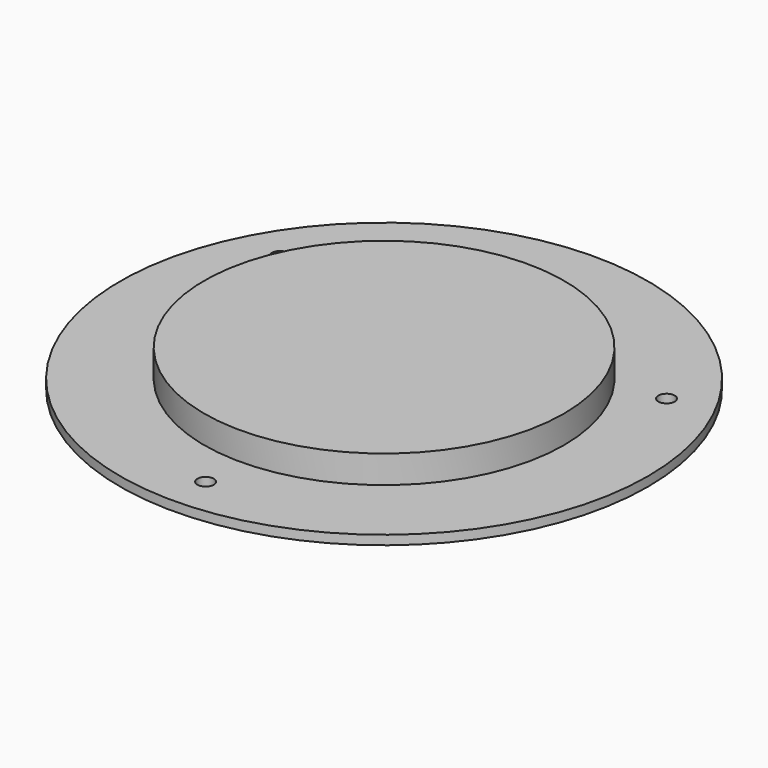
from build123d import *

# Parameters (mm, degrees)
SKETCH006_R   = 39.497
PAD001_DEPTH  = 6.096
SKETCH007_R   = 57.9374
SKETCH007_R_2 = 1.8034
PAD002_DEPTH  = 2.032
SKETCH009_R   = 36.957
POCKET_DEPTH  = 5.08


with BuildPart() as part:
    # Sketch006 → Pad001 (new body)
    with BuildSketch(Plane.XY):
        with Locations((177.8, 177.8)):
            Circle(SKETCH006_R)
    extrude(amount=PAD001_DEPTH)

    # Sketch007 → Pad002 (join)
    with BuildSketch(Plane.XY):
        with Locations((177.8, 177.8)):
            Circle(SKETCH007_R)
        with Locations((220.210303, 202.2856)):
            Circle(SKETCH007_R_2, mode=Mode.SUBTRACT)
        with Locations((135.389697, 202.2856)):
            Circle(SKETCH007_R_2, mode=Mode.SUBTRACT)
        with Locations((177.8, 128.8288)):
            Circle(SKETCH007_R_2, mode=Mode.SUBTRACT)
    extrude(amount=-PAD002_DEPTH)

    # Sketch009 (on Face3 of Pad002) → Pocket (cut)
    with BuildSketch(Plane(origin=(0, 0, -2.032), x_dir=(1, 0, 0), z_dir=(0, 0, -1))):
        with Locations((177.8, -177.8)):
            Circle(SKETCH009_R)
    extrude(amount=-POCKET_DEPTH, mode=Mode.SUBTRACT)


solid = part.part
